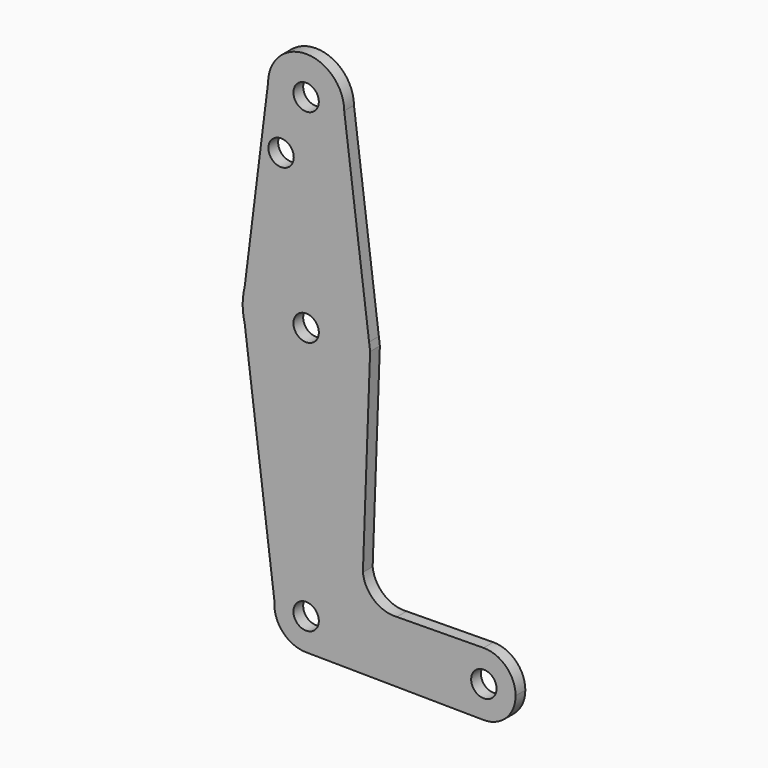
from build123d import *

# Parameters (mm, degrees)
F0_R     = 3.175
F1_DEPTH = 3.048


with BuildPart() as f1:
    # F0 (on Front) → F1 (new body)
    with BuildSketch(Plane.XZ):
        with BuildLine():
            ThreePointArc((-9.5247552699, 50.8682792011), (-0.0341398198, 41.2750611827), (9.525, 50.8))
            ThreePointArc((9.525, 50.8), (9.5249388173, 50.8341398198), (9.5247552699, 50.8682792011))
            ThreePointArc((9.5247552699, 50.8682792011), (0, 60.325), (-9.5247552699, 50.8682792011))
        make_face()
        with Locations((0, 50.8)):
            Circle(F0_R, mode=Mode.SUBTRACT)
        with BuildLine():
            ThreePointArc((9.5247552699, 50.8682792011), (9.5249388173, 50.8341398198), (9.525, 50.8))
            ThreePointArc((9.525, 50.8), (-0.0341398198, 41.2750611827), (-9.5247552699, 50.8682792011))
            Line((-9.5247552699, 50.8682792011), (-15.3877917977, 3.9027539752))
            ThreePointArc((-15.3877917977, 3.9027539752), (0.9655021463, 15.8456123456), (15.7477989471, 2.0056054753))
            Line((15.7477989471, 2.0056054753), (9.5247552699, 50.8682792011))
        make_face()
        with Locations((-6.2680649571, 36.5252)):
            Circle(F0_R, mode=Mode.SUBTRACT)
        with BuildLine():
            Line((16.0032284911, 0), (15.7477989471, 2.0056054753))
            ThreePointArc((15.7477989471, 2.0056054753), (15.8431678222, 1.0048175743), (15.875, 0))
            ThreePointArc((15.875, 0), (1.993599339, -15.749323372), (-15.3742833607, -3.9556334695))
            Line((-15.3742833607, -3.9556334695), (-7.9140857966, -62.8907773356))
            ThreePointArc((-7.9140857966, -62.8907773356), (0.3048362182, -55.5683557108), (7.9375, -63.5))
            ThreePointArc((7.9375, -63.5), (5.6126600757, -69.1126600757), (0, -71.4375))
            Line((0, -71.4375), (44.365795584, -71.9081779385))
            ThreePointArc((44.365795584, -71.9081779385), (36.5125, -63.9711245894), (44.365795584, -56.0340712404))
            Line((44.365795584, -56.0340712404), (22.6877614932, -56.2640540968))
            ThreePointArc((22.6877614932, -56.2640540968), (17.0215186735, -54.456069438), (14.1953211278, -49.222741276))
            Line((14.1953211278, -49.222741276), (16.0032284911, 0))
        make_face()
        with BuildLine():
            ThreePointArc((15.875, 0), (15.8431678222, 1.0048175743), (15.7477989471, 2.0056054753))
            ThreePointArc((15.7477989471, 2.0056054753), (0.9655021463, 15.8456123456), (-15.3877917977, 3.9027539752))
            Line((-15.3877917977, 3.9027539752), (-15.875, 0))
            Line((-15.875, 0), (-15.3742833607, -3.9556334695))
            ThreePointArc((-15.3742833607, -3.9556334695), (1.993599339, -15.749323372), (15.875, 0))
        make_face()
        Circle(F0_R, mode=Mode.SUBTRACT)
        with BuildLine():
            Line((-15.875, 0), (-15.3877917977, 3.9027539752))
            ThreePointArc((-15.3877917977, 3.9027539752), (-15.7527270621, 1.9665236093), (-15.875, 0))
        make_face()
        with BuildLine():
            Line((-15.3742833607, -3.9556334695), (-15.875, 0))
            ThreePointArc((-15.875, 0), (-15.749323372, -1.993599339), (-15.3742833607, -3.9556334695))
        make_face()
        with BuildLine():
            ThreePointArc((7.9375, -63.5), (0.3048362182, -55.5683557108), (-7.9140857966, -62.8907773356))
            ThreePointArc((-7.9140857966, -62.8907773356), (-5.8240712199, -68.8929677058), (0, -71.4375))
            ThreePointArc((0, -71.4375), (5.6126600757, -69.1126600757), (7.9375, -63.5))
        make_face()
        with Locations((0, -63.5)):
            Circle(F0_R, mode=Mode.SUBTRACT)
        with BuildLine():
            ThreePointArc((52.3875, -63.9711245894), (50.032809942, -58.3287722962), (44.365795584, -56.0340712404))
            ThreePointArc((44.365795584, -56.0340712404), (36.5125, -63.9711245894), (44.365795584, -71.9081779385))
            ThreePointArc((44.365795584, -71.9081779385), (50.032809942, -69.6134768827), (52.3875, -63.9711245894))
        make_face()
        with Locations((44.45, -63.9711245894)):
            Circle(F0_R, mode=Mode.SUBTRACT)
    extrude(amount=F1_DEPTH)


solid = f1.part
